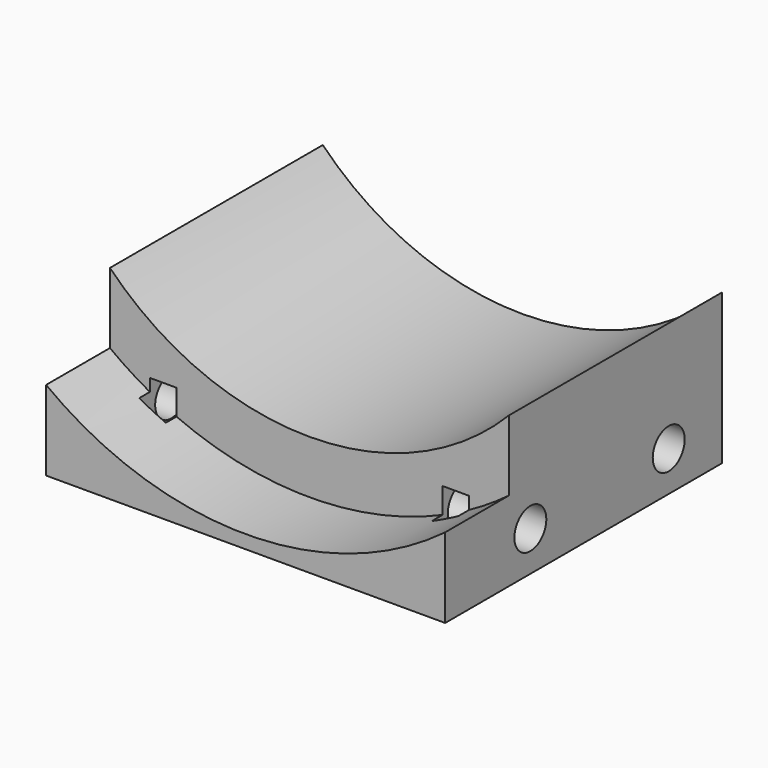
from build123d import *

# Parameters (mm, degrees)
CYLINDER2797_R     = 1.5
CYLINDER2797_DEPTH = 64
CYLINDER2798_R     = 1.5
CYLINDER2798_DEPTH = 64
CYLINDER2796_R     = 38
CYLINDER2796_DEPTH = 30
BOX999_W           = 2
BOX999_H           = 6
BOX999_DEPTH       = 6
BOX992_W           = 2
BOX992_H           = 6
BOX992_DEPTH       = 6
BOX993_W           = 2
BOX993_H           = 6
BOX993_DEPTH       = 6
BOX994_W           = 2
BOX994_H           = 6
BOX994_DEPTH       = 6
BOX995_W           = 2
BOX995_H           = 6
BOX995_DEPTH       = 6
BOX997_W           = 2
BOX997_H           = 6
BOX997_DEPTH       = 6
TUBE142_R          = 21
TUBE142_R_2        = 2
TUBE142_DEPTH      = 64
TUBE141_R          = 25
TUBE141_R_2        = 2
TUBE141_DEPTH      = 26
BOX996_W           = 30
BOX996_H           = 64
BOX996_DEPTH       = 18
BOX998_W           = 30
BOX998_H           = 26
BOX998_DEPTH       = 18


with BuildPart() as obj1:
    # Cylinder2797 → Cylinder2797 (new body)
    with BuildSketch(Plane(origin=(-26, 12, 14), x_dir=(0, 0, -1), z_dir=(1, 0, 0))):
        Circle(CYLINDER2797_R)
    extrude(amount=CYLINDER2797_DEPTH)


with BuildPart() as compound1247:
    # Cylinder2798 → Cylinder2798 (new body)
    with BuildSketch(Plane(origin=(-26, -1, 14), x_dir=(0, 0, -1), z_dir=(1, 0, 0))):
        Circle(CYLINDER2798_R)
    extrude(amount=CYLINDER2798_DEPTH)

    # Compound1247: union obj1
    add(obj1.part)


with BuildPart() as obj2:
    # Cylinder2796 → Cylinder2796 (new body)
    with BuildSketch(Plane.XY):
        Circle(CYLINDER2796_R)
    extrude(amount=CYLINDER2796_DEPTH)


with BuildPart() as krychle998:
    # Box999 → Box999 (new body)
    with BuildSketch(Plane(origin=(-12, -4, 10), x_dir=(1, 0, 0), z_dir=(0, 0, 1))):
        with Locations((1, 3)):
            Rectangle(BOX999_W, BOX999_H)
    extrude(amount=BOX999_DEPTH)


with BuildPart() as krychle991:
    # Box992 → Box992 (new body)
    with BuildSketch(Plane(origin=(10, 26, 10), x_dir=(1, 0, 0), z_dir=(0, 0, 1))):
        with Locations((1, 3)):
            Rectangle(BOX992_W, BOX992_H)
    extrude(amount=BOX992_DEPTH)


with BuildPart() as krychle992:
    # Box993 → Box993 (new body)
    with BuildSketch(Plane(origin=(-12, 26, 10), x_dir=(1, 0, 0), z_dir=(0, 0, 1))):
        with Locations((1, 3)):
            Rectangle(BOX993_W, BOX993_H)
    extrude(amount=BOX993_DEPTH)


with BuildPart() as krychle993:
    # Box994 → Box994 (new body)
    with BuildSketch(Plane(origin=(10, 12, 10), x_dir=(1, 0, 0), z_dir=(0, 0, 1))):
        with Locations((1, 3)):
            Rectangle(BOX994_W, BOX994_H)
    extrude(amount=BOX994_DEPTH)


with BuildPart() as krychle994:
    # Box995 → Box995 (new body)
    with BuildSketch(Plane(origin=(-12, 12, 10), x_dir=(1, 0, 0), z_dir=(0, 0, 1))):
        with Locations((1, 3)):
            Rectangle(BOX995_W, BOX995_H)
    extrude(amount=BOX995_DEPTH)


with BuildPart() as compound1246:
    # Box997 → Box997 (new body)
    with BuildSketch(Plane(origin=(10, -4, 10), x_dir=(1, 0, 0), z_dir=(0, 0, 1))):
        with Locations((1, 3)):
            Rectangle(BOX997_W, BOX997_H)
    extrude(amount=BOX997_DEPTH)

    # Compound1246: union Krychle998, Krychle991, Krychle992, Krychle993, Krychle994
    add(krychle998.part)
    add(krychle991.part)
    add(krychle992.part)
    add(krychle993.part)
    add(krychle994.part)


with BuildPart() as tube142:
    # Tube142 → Tube142 (new body)
    with BuildSketch(Plane(origin=(0, 61, 37), x_dir=(1, 0, 0), z_dir=(0, -1, 0))):
        Circle(TUBE142_R)
        Circle(TUBE142_R_2, mode=Mode.SUBTRACT)
    extrude(amount=TUBE142_DEPTH)


with BuildPart() as tube141:
    # Tube141 → Tube141 (new body)
    with BuildSketch(Plane(origin=(0, -3, 37), x_dir=(1, 0, 0), z_dir=(0, -1, 0))):
        Circle(TUBE141_R)
        Circle(TUBE141_R_2, mode=Mode.SUBTRACT)
    extrude(amount=TUBE141_DEPTH)


with BuildPart() as common011:
    # Box996 → Box996 (new body)
    with BuildSketch(Plane(origin=(-15, -17, 11), x_dir=(1, 0, 0), z_dir=(0, 0, 1))):
        with Locations((15, 32)):
            Rectangle(BOX996_W, BOX996_H)
    extrude(amount=BOX996_DEPTH)

    # Cut1057: cut Tube141
    add(tube141.part, mode=Mode.SUBTRACT)

    # Cut1058: cut Tube142
    add(tube142.part, mode=Mode.SUBTRACT)

    # Cut1059: cut Compound1246
    add(compound1246.part, mode=Mode.SUBTRACT)

    # Common011: intersect obj2
    add(obj2.part, mode=Mode.INTERSECT)


with BuildPart() as cut1060:
    # Box998 → Box998 (new body)
    with BuildSketch(Plane(origin=(-15, -9, 11), x_dir=(1, 0, 0), z_dir=(0, 0, 1))):
        with Locations((15, 13)):
            Rectangle(BOX998_W, BOX998_H)
    extrude(amount=BOX998_DEPTH)

    # Common012: intersect Common011
    add(common011.part, mode=Mode.INTERSECT)

    # Cut1060: cut Compound1247
    add(compound1247.part, mode=Mode.SUBTRACT)


with BuildPart() as cut1060_1:
    # Cut1060 placement: moved
    add(cut1060.part.moved(Location((0, 5, 0))))


solid = cut1060_1.part
